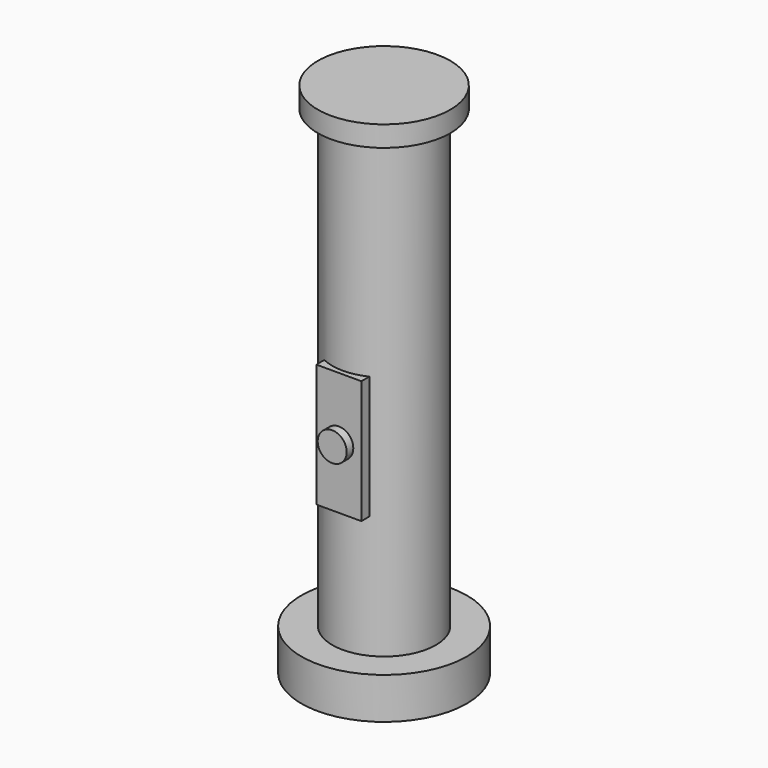
from build123d import *

# Parameters (mm, degrees)
F1_R      = 31.75
F2_DEPTH  = 279.4
F3_R      = 50.8
F4_DEPTH  = 50.8
F5_R      = 40.64
F6_DEPTH  = 12.7
F4_FACE_R = 50.8
F7_DEPTH  = 25.4
F8_W      = 27.653224
F8_H      = 75.585485
F9_DEPTH  = 7.62
F10_R     = 25.4
F11_DEPTH = 25.4
F12_R     = 8.89
F13_DEPTH = 5.08


with BuildPart() as f2:
    # F1 (on face) → F2 (new body)
    with BuildSketch(Plane.XY):
        with Locations((-63.058764, 27.092882)):
            Circle(F1_R)
    extrude(amount=-F2_DEPTH)

    # F3 (on face) → F4 (join)
    with BuildSketch(Plane(origin=(0, 0, -279.4), x_dir=(1, 0, 0), z_dir=(0, 0, -1))):
        with Locations((-63.058764, -27.092882)):
            Circle(F3_R)
    extrude(amount=F4_DEPTH)

    # F5 (on face) → F6 (join)
    with BuildSketch(Plane.XY):
        with Locations((-63.058764, 27.092882)):
            Circle(F5_R)
    extrude(amount=F6_DEPTH)

    # F4_face (on face) → F7 (cut)
    with BuildSketch(Plane(origin=(-63.058764, 27.092882, -330.2), x_dir=(1, 0, 0), z_dir=(0, 0, -1))):
        Circle(F4_FACE_R)
    extrude(amount=-F7_DEPTH, mode=Mode.SUBTRACT)

    # F8 (on Front) → F9 (join)
    with BuildSketch(Plane.XZ):
        with Locations((-63.074544, -166.380242)):
            Rectangle(F8_W, F8_H)
    extrude(amount=F9_DEPTH)

    # F10 (on face) → F11 (cut)
    with BuildSketch(Plane(origin=(0, 0, -304.8), x_dir=(1, 0, 0), z_dir=(0, 0, -1))):
        with Locations((-63.058764, -27.092882)):
            Circle(F10_R)
    extrude(amount=-F11_DEPTH, mode=Mode.SUBTRACT)

    # F12 (on face) → F13 (join)
    with BuildSketch(Plane.XZ.offset(7.62)):
        with Locations((-63.074544, -166.380242)):
            Circle(F12_R)
    extrude(amount=F13_DEPTH)


solid = f2.part
